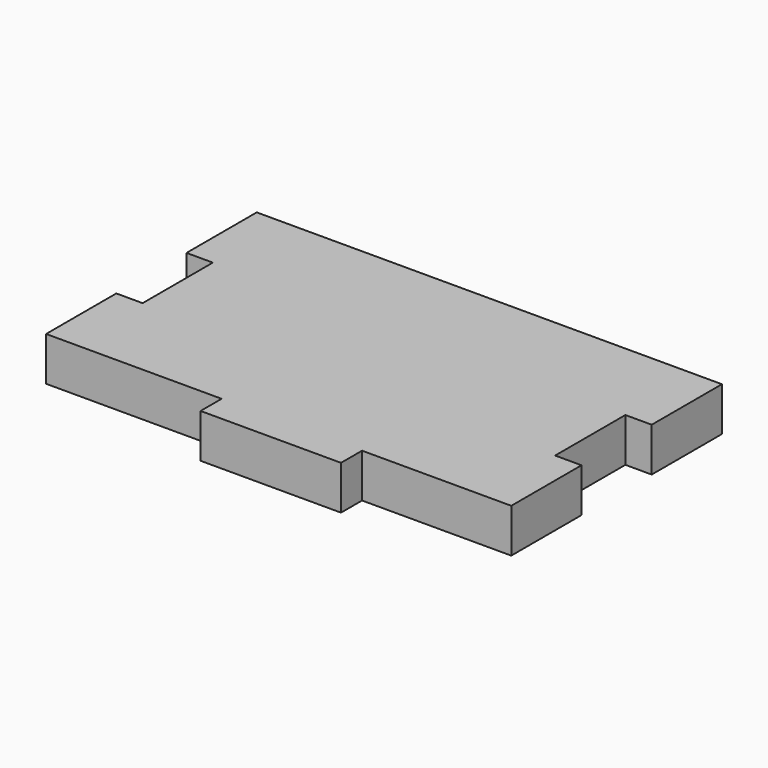
from build123d import *

# Parameters (mm, degrees)
F1_DEPTH = 5


with BuildPart() as f1:
    # F0 (on Top) → F1 (new body)
    with BuildSketch(Plane.XY):
        Polygon((26.5, 16.5), (-26.5, 16.5), (-26.5, 6.5), (-23.5, 6.5), (-23.5, -3.5), (-26.5, -3.5), (-26.5, -13.5), (-23.5, -13.5), (-9.5, -13.5), (-6.5, -13.5), (-6.5, -16.5), (9.5, -16.5), (9.5, -13.5), (26.5, -13.5), (26.5, -3.5), (23.5, -3.5), (23.5, 6.5), (26.5, 6.5), align=None)
    extrude(amount=F1_DEPTH)


solid = f1.part
